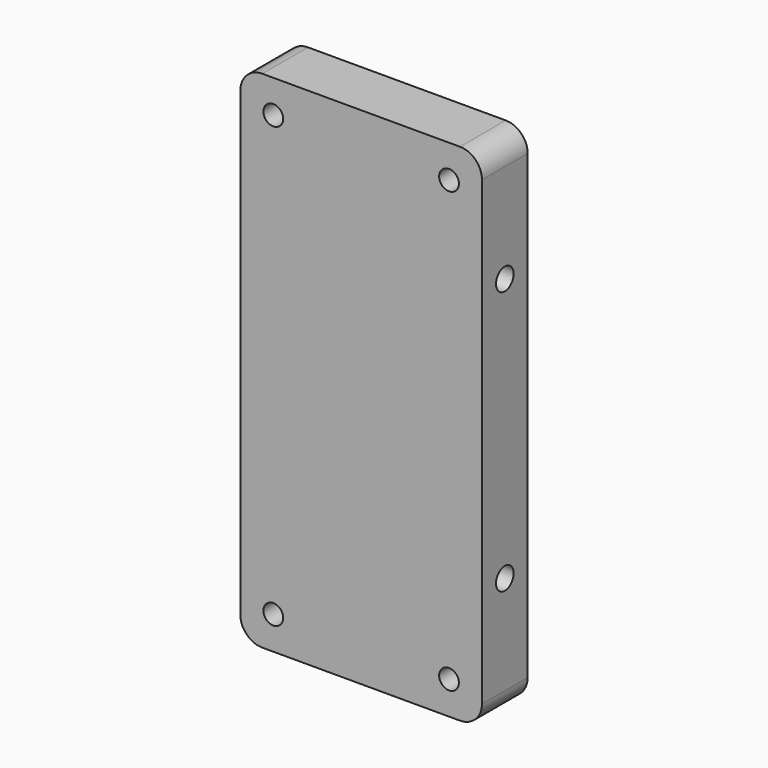
from build123d import *

# Parameters (mm, degrees)
F0_W     = 55
F0_H     = 115
F1_DEPTH = 13
F3_D     = 4.5
F3_DEPTH = 30
F3_TIP   = 1.3519363928
F5_D     = 5
F5_DEPTH = 20
F5_TIP   = 1.5021515476
F7_D     = 5
F7_DEPTH = 20
F7_TIP   = 1.5021515476
F8_R     = 5


with BuildPart() as f1:
    # F0 (on Front) → F1 (new body)
    with BuildSketch(Plane.XZ):
        Rectangle(F0_W, F0_H)
    extrude(amount=F1_DEPTH)

    # F3
    with Locations(Plane.XZ.offset(13)):
        with Locations((-20, 50), (20, 50), (20, -50), (-20, -50)):
            Hole(F3_D / 2, depth=F3_DEPTH)
            with Locations((0, 0, -(F3_DEPTH + F3_TIP / 2))):  # 118° drill point
                Cone(0, F3_D / 2, F3_TIP, mode=Mode.SUBTRACT)

    # F5
    with Locations(Plane.YZ.offset(27.5)):
        with Locations((-6.5, 30), (-6.5, -30)):
            Hole(F5_D / 2, depth=F5_DEPTH)
            with Locations((0, 0, -(F5_DEPTH + F5_TIP / 2))):  # 118° drill point
                Cone(0, F5_D / 2, F5_TIP, mode=Mode.SUBTRACT)

    # F7
    with Locations(Plane(origin=(-27.5, 0, 0), x_dir=(0, -1, 0), z_dir=(-1, 0, 0))):
        with Locations((6.5, 30), (6.5, -30)):
            Hole(F7_D / 2, depth=F7_DEPTH)
            with Locations((0, 0, -(F7_DEPTH + F7_TIP / 2))):  # 118° drill point
                Cone(0, F7_D / 2, F7_TIP, mode=Mode.SUBTRACT)

    # F8
    f8_edges = [f1.edges().sort_by_distance(p)[0] for p in [
        (27.5, -6.5, 57.5),
        (-27.5, -6.5, 57.5),
        (-27.5, -6.5, -57.5),
        (27.5, -6.5, -57.5),
    ]]
    fillet(f8_edges, radius=F8_R)


solid = f1.part
